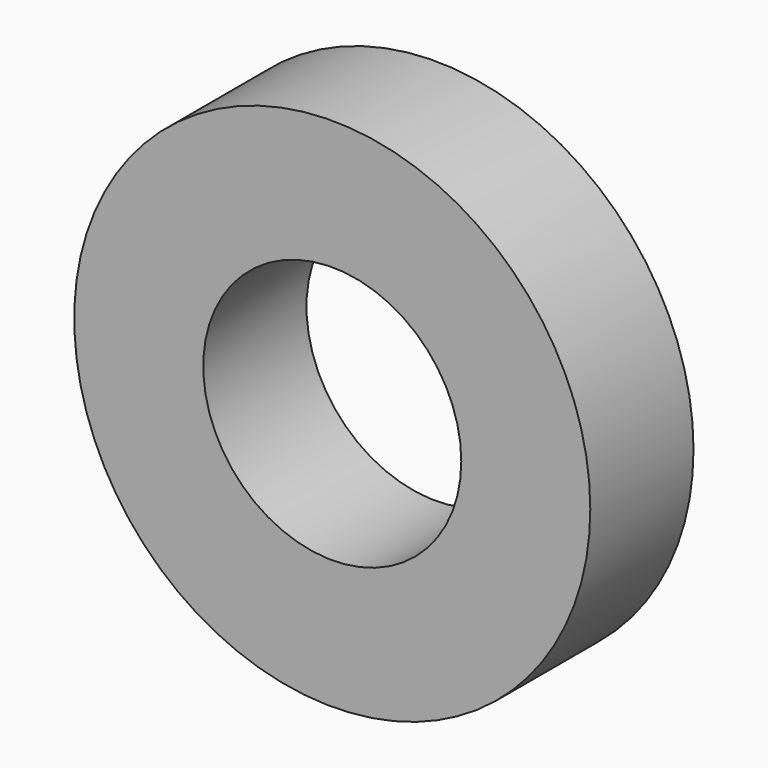
from build123d import *

# Parameters (mm, degrees)
SKETCH010_AS_DRAWN_R                 = 1
EXTRUDE009_DEPTH                     = 10
EXTRUDE009_ONTO_SKETCH010_ROLL_ANGLE = 90
SKETCH006_AS_DRAWN_R                 = 2
EXTRUDE007_DEPTH                     = 1
EXTRUDE007_ONTO_SKETCH006_ROLL_ANGLE = 90


with BuildPart() as extrude009:
    # Sketch010 as drawn → Extrude009 (new)
    with BuildSketch(Plane.XY):
        Circle(SKETCH010_AS_DRAWN_R)
    extrude(amount=-EXTRUDE009_DEPTH)


with BuildPart() as extrude009_1:
    # Extrude009 onto Sketch010 roll: moved
    add(extrude009.part.rotate(Axis((0, 0, 0), (1, 0, 0)), EXTRUDE009_ONTO_SKETCH010_ROLL_ANGLE))


with BuildPart() as extrude009_2:
    # Extrude009 onto Sketch010 placement: moved
    add(extrude009_1.part)


with BuildPart() as extrude009_3:
    # Extrude009 placement: moved
    add(extrude009_2.part.moved(Location((0, 30, 0))))


with BuildPart() as cut004:
    # Sketch006 as drawn → Extrude007 (new)
    with BuildSketch(Plane.XY):
        Circle(SKETCH006_AS_DRAWN_R)
    extrude(amount=-EXTRUDE007_DEPTH)


with BuildPart() as cut004_1:
    # Extrude007 onto Sketch006 roll: moved
    add(cut004.part.rotate(Axis((0, 0, 0), (1, 0, 0)), EXTRUDE007_ONTO_SKETCH006_ROLL_ANGLE))


with BuildPart() as cut004_2:
    # Extrude007 onto Sketch006 placement: moved
    add(cut004_1.part.moved(Location((0, 34, 0))))


with BuildPart() as cut004_3:
    # Extrude007 placement: moved
    add(cut004_2.part.moved(Location((0, -1.2, 0))))

    # Cut004: cut Extrude009
    add(extrude009_3.part, mode=Mode.SUBTRACT)


solid = cut004_3.part
